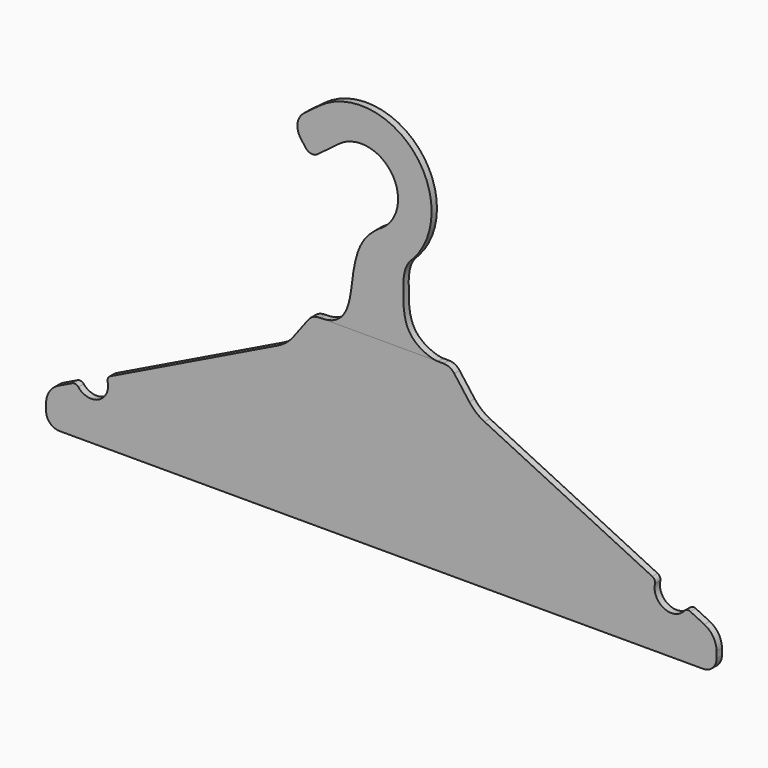
from build123d import *

# Parameters (mm, degrees)
F2_DEPTH = 4


with BuildPart() as f2:
    # F1 (on Front) → F2 (new body)
    with BuildSketch(Plane.XZ):
        with BuildLine():
            ThreePointArc((18.8345826463, 158.9782924416), (19.1860958712, 215.6277740938), (-37.2, 221.0954541697))
            Line((-37.2, 221.0954541697), (-46.0592777571, 214.4509958519))
            ThreePointArc((-46.0592777571, 214.4509958519), (-49.9587726937, 207.8652094143), (-48.0592777571, 200.4509958519))
            Line((-48.0592777571, 200.4509958519), (-45.0592777571, 196.4509958519))
            ThreePointArc((-45.0592777571, 196.4509958519), (-41.7663845383, 194.5012483836), (-38.0592777571, 195.4509958519))
            Line((-38.0592777571, 195.4509958519), (-25.2, 205.0954541697))
            ThreePointArc((-25.2, 205.0954541697), (5.6, 200.6954541697), (1.2, 169.8954541697))
            ThreePointArc((1.2, 169.8954541697), (-5.571825393, 161.7813668662), (-8, 151.4954541697))
            Line((-8, 151.4954541697), (-8, 110))
            Line((-8, 110), (0, 110))
            Line((0, 110), (12, 110))
            Line((12, 110), (12, 151.4954541697))
            ThreePointArc((12, 151.4954541697), (12.316718427, 152.8370949562), (13.2, 153.8954541697))
            ThreePointArc((13.2, 153.8954541697), (15.3055154559, 155.5829358472), (17.2983292582, 157.4021342685))
            add(Edge.make_bspline(
                [(18.8345826463, 158.9782924416), (18.2685657224, 158.4677005018), (17.7583091445, 157.9420185701), (17.2983292582, 157.4021342685)],
                knots=[0, 0, 0, 0, 0.0332714109, 0.0332714109, 0.0332714109, 0.0332714109], degree=3))
        make_face()
        with BuildLine():
            ThreePointArc((17.2983292582, 157.4021342685), (18.0767824439, 158.180148307), (18.8345826463, 158.9782924416))
            add(Edge.make_bspline(
                [(18.8345826463, 158.9782924416), (18.2685657224, 158.4677005018), (17.7583091445, 157.9420185701), (17.2983292582, 157.4021342685)],
                knots=[0, 0, 0, 0, 0.0332714109, 0.0332714109, 0.0332714109, 0.0332714109], degree=3))
        make_face()
        with BuildLine():
            add(Edge.make_bspline(
                [(17.2983292582, 157.4021342685), (13.1793035086, 152.5675808311), (12.9884623094, 139.527426253), (13.3703276725, 116.5931182655), (29.7821242027, 110), (33.8129806474, 110)],
                knots=[0.0332714109, 0.0332714109, 0.0332714109, 0.0332714109, 0.3312100872, 0.6836806519, 1, 1, 1, 1], degree=3))
            ThreePointArc((17.2983292582, 157.4021342685), (15.3055154559, 155.5829358472), (13.2, 153.8954541697))
            ThreePointArc((13.2, 153.8954541697), (12.316718427, 152.8370949562), (12, 151.4954541697))
            Line((12, 151.4954541697), (12, 110))
            Line((12, 110), (33.8129806474, 110))
        make_face()
        with BuildLine():
            ThreePointArc((-8, 151.4954541697), (-5.571825393, 161.7813668662), (1.2, 169.8954541697))
            add(Edge.make_bspline(
                [(-36.0568419915, 110), (-19.4195834096, 110), (-18.0177646467, 138.2709232819), (-12.939977235, 158.3678372994), (-4.7115848759, 166.2572265506), (1.2, 169.8954541697)],
                knots=[0, 0, 0, 0, 0.3938915377, 0.7136667849, 1, 1, 1, 1], degree=3))
            Line((-36.0568419915, 110), (-8, 110))
            Line((-8, 110), (-8, 151.4954541697))
        make_face()
    extrude(amount=F2_DEPTH)


with BuildPart() as f2b:
    # F0 (on Front) → F2, piece 2 (new body)
    with BuildSketch(Plane.XZ):
        with BuildLine():
            Line((-192, 0), (0, 0))
            Line((0, 0), (192, 0))
            ThreePointArc((192, 0), (197.6568542495, 2.3431457505), (200, 8))
            Line((200, 8), (200, 11.8679378518))
            ThreePointArc((200, 11.8679378518), (198.0212862226, 18.7622289683), (192.6875, 23.5577771898))
            Line((192.6875, 23.5577771898), (184.3977608474, 27.5910140947))
            ThreePointArc((184.3977608474, 27.5910140947), (182.4418558034, 27.8235516806), (180.763303963, 26.792968356))
            ThreePointArc((180.763303963, 26.792968356), (168.6484476814, 24.1328158938), (163.2643606305, 35.3067928257))
            ThreePointArc((163.2643606305, 35.3067928257), (163.0392589783, 37.2635675997), (161.6491345153, 38.6589859053))
            Line((161.6491345153, 38.6589859053), (61.5606644749, 87.3553928354))
            ThreePointArc((61.5606644749, 87.3553928354), (56.583657005, 90.5555924183), (52.4981644749, 94.8358531009))
            Line((52.4981644749, 94.8358531009), (43.5250543006, 106.8))
            ThreePointArc((43.5250543006, 106.8), (40.7027630646, 109.155417528), (37.1250543006, 110))
            Line((37.1250543006, 110), (0, 110))
            Line((0, 110), (-37.1250543006, 110))
            ThreePointArc((-37.1250543006, 110), (-40.7027630646, 109.155417528), (-43.5250543006, 106.8))
            Line((-43.5250543006, 106.8), (-52.4981644749, 94.8358531009))
            ThreePointArc((-52.4981644749, 94.8358531009), (-56.583657005, 90.5555924183), (-61.5606644749, 87.3553928354))
            Line((-61.5606644749, 87.3553928354), (-161.6491345153, 38.6589859053))
            ThreePointArc((-161.6491345153, 38.6589859053), (-163.0392589783, 37.2635675997), (-163.2643606305, 35.3067928257))
            ThreePointArc((-163.2643606305, 35.3067928257), (-168.6484476814, 24.1328158938), (-180.763303963, 26.792968356))
            ThreePointArc((-180.763303963, 26.792968356), (-182.4418558034, 27.8235516806), (-184.3977608474, 27.5910140947))
            Line((-184.3977608474, 27.5910140947), (-192.6875, 23.5577771898))
            ThreePointArc((-192.6875, 23.5577771898), (-198.0212862226, 18.7622289683), (-200, 11.8679378518))
            Line((-200, 11.8679378518), (-200, 8))
            ThreePointArc((-200, 8), (-197.6568542495, 2.3431457505), (-192, 0))
        make_face()
    extrude(amount=F2_DEPTH)


solid = Compound([f2.part, f2b.part])
